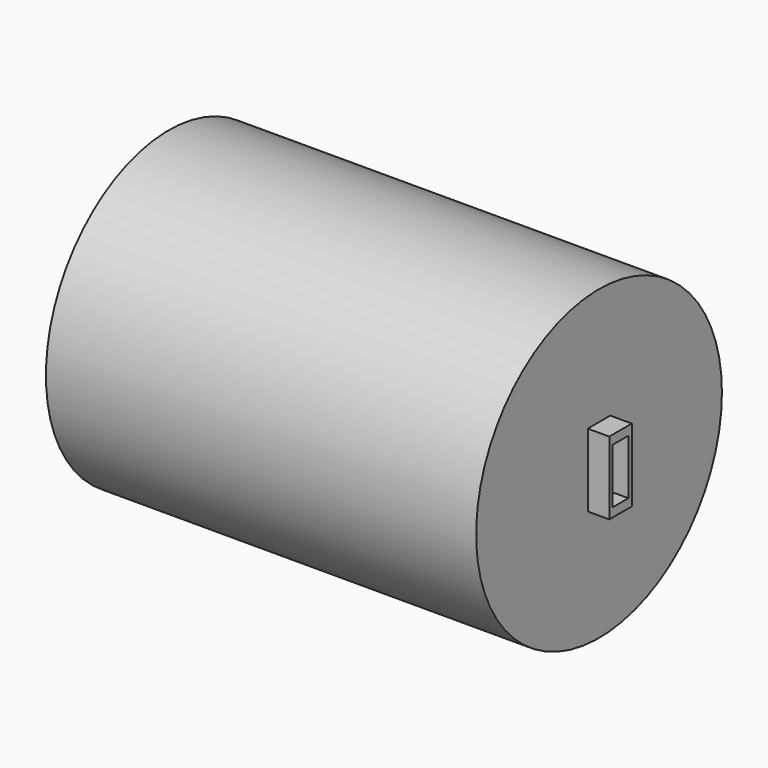
from build123d import *

# Parameters (mm, degrees)
F0_W     = 33.256879
F0_H     = 86.122798
F0_W_2   = 23.275094
F0_H_2   = 64.976308
F1_DEPTH = 533.4
F0_R     = 181.374578
F2_DEPTH = 508


with BuildPart() as f1:
    # F0 (on Right) → F1 (new body)
    with BuildSketch(Plane.YZ):
        with Locations((0.07674, 1.116945)):
            Rectangle(F0_W, F0_H)
        with Locations((0.07674, 1.116945)):
            Rectangle(F0_W_2, F0_H_2, mode=Mode.SUBTRACT)
    extrude(amount=F1_DEPTH)

    # F0 (on Right) → F2 (join)
    with BuildSketch(Plane.YZ):
        with Locations((0.07674, 1.116945)):
            Circle(F0_R)
        with Locations((0.07674, 1.116945)):
            Rectangle(F0_W, F0_H, mode=Mode.SUBTRACT)
    extrude(amount=F2_DEPTH)


solid = f1.part
